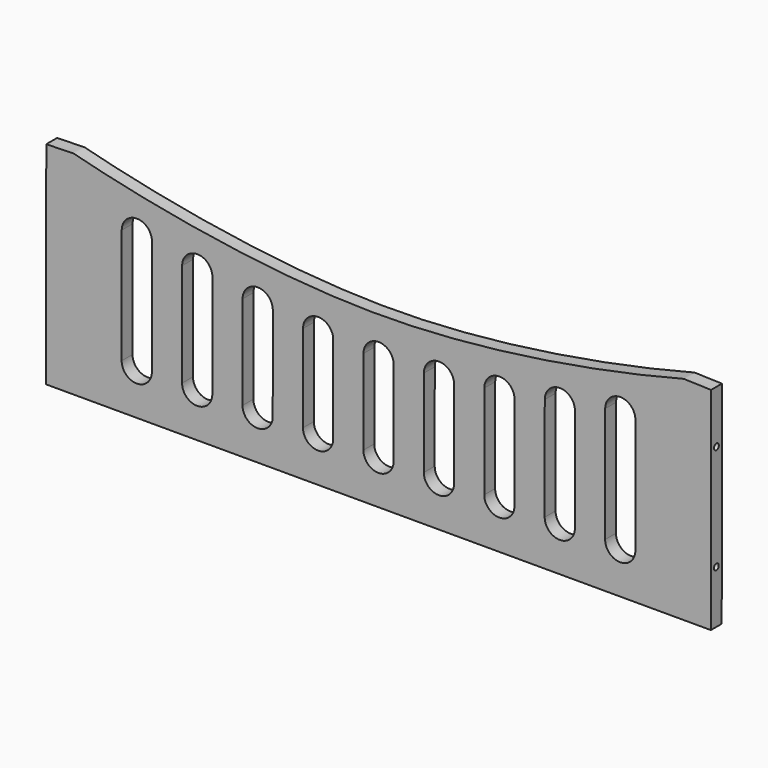
from build123d import *

# Parameters (mm, degrees)
F1_DEPTH = 9
F3_D     = 4
F3_DEPTH = 15
F3_TIP   = 1.2017212381
F5_D     = 4
F5_DEPTH = 15
F5_TIP   = 1.2017212381


with BuildPart() as f1:
    # F0 (on Front) → F1 (new body)
    with BuildSketch(Plane.XZ):
        with BuildLine():
            Line((-220.0626368999, -69.9549353437), (219.9373538806, -70.0450085997))
            Line((219.9373538806, -70.0450085997), (220.0626368999, 69.9549353437))
            add(Edge.make_bspline(
                [(-219.9373538806, 70.0450085997), (-199.9373538806, 70.0450085997), (-216.6704655541, 74.4055250187), (-0.0007798551, 17.9431203918), (216.8058766507, 74.4053980204), (200.0626368999, 70.0450085992), (220.0626368999, 69.9549353437)],
                knots=[0, 0, 0, 0, 0.1196931891, 0.4999412608, 0.880306204, 1, 1, 1, 1], degree=3))
            Line((-219.9373538806, 70.0450085997), (-220.0626368999, -69.9549353437))
        make_face()
        with BuildLine():
            Line((-170.0393250498, -39.9620589055), (-169.9999986665, 36.1896787821))
            ThreePointArc((-169.9999986665, 36.1896787821), (-159.9944506903, 46.1845130295), (-150.0000017609, 36.1785801628))
            Line((-150.0000017609, 36.1785801628), (-150.0451933034, -39.9731542701))
            ThreePointArc((-150.0451933034, -39.9731542701), (-160.0478066453, -49.9642874845), (-170.0393250498, -39.9620589055))
        make_face(mode=Mode.SUBTRACT)
        with BuildLine():
            Line((-130.0422587333, -39.9692360273), (-129.9999980941, 28.4795169333))
            ThreePointArc((-129.9999980941, 28.4795169333), (-119.9938259458, 38.4733409731), (-110.0000019059, 28.4671688248))
            Line((-110.0000019059, 28.4671688248), (-110.0422625452, -39.9815841357))
            ThreePointArc((-110.0422625452, -39.9815841357), (-120.0484346935, -49.9754081755), (-130.0422587333, -39.9692360273))
        make_face(mode=Mode.SUBTRACT)
        with BuildLine():
            Line((-90.042260003, -39.9767977945), (-89.9999976875, 22.1666648469))
            ThreePointArc((-89.9999976875, 22.1666648469), (-79.9931992354, 32.1598617699), (-70.0000023125, 22.1530633178))
            Line((-70.0000023125, 22.1530633178), (-70.0422646281, -39.9903993236))
            ThreePointArc((-70.0422646281, -39.9903993236), (-80.0490630801, -49.9835962466), (-90.042260003, -39.9767977945))
        make_face(mode=Mode.SUBTRACT)
        with BuildLine():
            Line((-50.0422613274, -39.9844871548), (-49.9999973356, 17.9123129962))
            ThreePointArc((-49.9999973356, 17.9123129962), (-39.9927001181, 27.9050104499), (-30.0000026644, 17.8977132324))
            Line((-30.0000026644, 17.8977132324), (-30.0422666562, -39.9990869186))
            ThreePointArc((-30.0422666562, -39.9990869186), (-40.0495638737, -49.9917843723), (-50.0422613274, -39.9844871548))
        make_face(mode=Mode.SUBTRACT)
        with BuildLine():
            Line((-10.0422628538, -39.9924730545), (-9.9999971857, 16.3432583937))
            ThreePointArc((-9.9999971857, 16.3432583937), (0.0075024598, 26.3357531195), (9.9999971857, 16.328253474))
            Line((9.9999971857, 16.328253474), (9.9577315176, -40.0074779741))
            ThreePointArc((9.9577315176, -40.0074779741), (-0.0497681279, -49.9999726999), (-10.0422628538, -39.9924730545))
        make_face(mode=Mode.SUBTRACT)
        with BuildLine():
            Line((29.9577353163, -40.0008692622), (30.0000026607, 17.9414189994))
            ThreePointArc((30.0000026607, 17.9414189994), (40.0072947297, 27.934121609), (49.9999973393, 17.92682954))
            Line((49.9999973393, 17.92682954), (49.957729995, -40.0154587216))
            ThreePointArc((49.957729995, -40.0154587216), (39.9504379259, -50.0081613312), (29.9577353163, -40.0008692622))
        make_face(mode=Mode.SUBTRACT)
        with BuildLine():
            Line((69.9577332858, -40.0095606011), (70.0000023065, 22.2251711426))
            ThreePointArc((70.0000023065, 22.2251711426), (80.0067918684, 32.2183769677), (89.9999976935, 22.2115874058))
            Line((89.9999976935, 22.2115874058), (89.9577286729, -40.0231443379))
            ThreePointArc((89.9577286729, -40.0231443379), (79.9509391109, -50.016350163), (69.9577332858, -40.0095606011))
        make_face(mode=Mode.SUBTRACT)
        with BuildLine():
            Line((109.9577312027, -40.0183771938), (110.0000018996, 28.5610859215))
            ThreePointArc((110.0000018996, 28.5610859215), (120.0061637533, 38.5549202687), (129.9999981004, 28.548758415))
            Line((129.9999981004, 28.548758415), (129.9577274035, -40.0307047003))
            ThreePointArc((129.9577274035, -40.0307047003), (119.9515655498, -50.0245390475), (109.9577312027, -40.0183771938))
        make_face(mode=Mode.SUBTRACT)
        with BuildLine():
            Line((149.9577291616, -40.0271889989), (150.0000015348, 36.2708587226))
            ThreePointArc((150.0000015348, 36.2708587226), (160.0055404257, 46.2653167621), (169.9999984652, 36.2597778711))
            Line((169.9999984652, 36.2597778711), (169.957726092, -40.0382698504))
            ThreePointArc((169.957726092, -40.0382698504), (159.952187201, -50.0327278899), (149.9577291616, -40.0271889989))
        make_face(mode=Mode.SUBTRACT)
    extrude(amount=F1_DEPTH)

    # F3
    with Locations(Plane(origin=(-219.9998595148, 0, 0.1968732692), x_dir=(0, -1, 0), z_dir=(-0.9999995996, 0, 0.0008948787))):
        with Locations((4.5, 34.8481632979), (4.5, -35.1518367021)):
            Hole(F3_D / 2, depth=F3_DEPTH)
            with Locations((0, 0, -(F3_DEPTH + F3_TIP / 2))):  # 118° drill point
                Cone(0, F3_D / 2, F3_TIP, mode=Mode.SUBTRACT)

    # F5
    with Locations(Plane(origin=(219.9998595148, 0, -0.1968732692), x_dir=(0, 1, 0), z_dir=(0.9999995996, 0, -0.0008948787))):
        with Locations((-4.5, 35.1518367021), (-4.5, -34.8481632979)):
            Hole(F5_D / 2, depth=F5_DEPTH)
            with Locations((0, 0, -(F5_DEPTH + F5_TIP / 2))):  # 118° drill point
                Cone(0, F5_D / 2, F5_TIP, mode=Mode.SUBTRACT)


solid = f1.part
